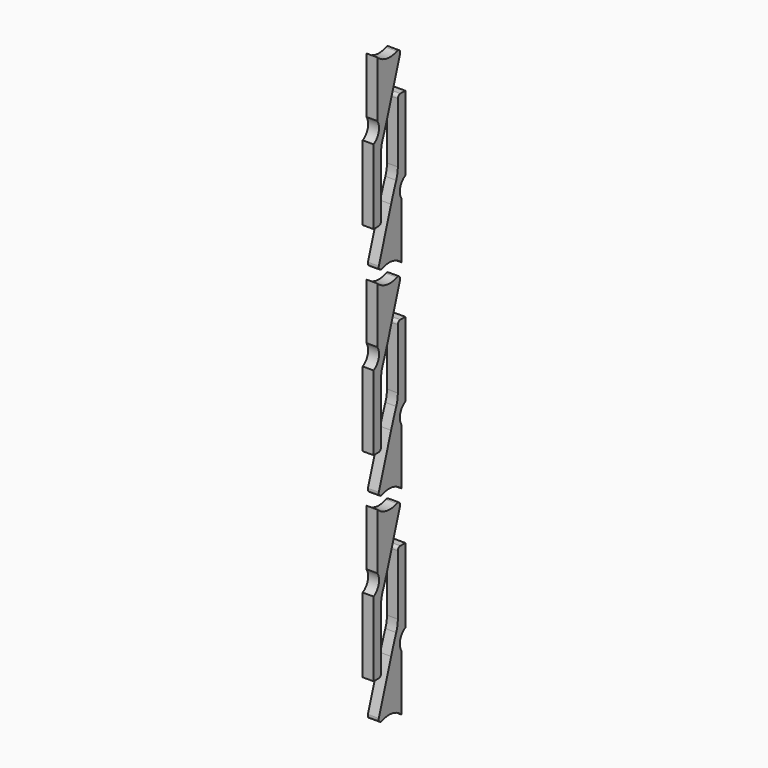
from build123d import *

# Parameters (mm, degrees)
F0_W     = 44.45
F0_H     = 184.15
F1_DEPTH = 2438.4
F2_W     = 184.15
F2_H     = 2438.4
F3_DEPTH = 44.451


with BuildPart() as f1:
    # F0 (on Top) → F1 (new body)
    with BuildSketch(Plane.XY):
        with Locations((22.225, 92.075)):
            Rectangle(F0_W, F0_H)
    extrude(amount=F1_DEPTH)

    # F2 (on face) → F3 (cut, through all)
    with BuildSketch(Plane.YZ.offset(44.45)):
        with Locations((92.075, 1219.2)):
            Rectangle(F2_W, F2_H)
        with BuildLine():
            Line((50.8, 449.111792), (50.8, 203.2))
            ThreePointArc((50.8, 203.2), (47.080256, 194.219744), (38.1, 190.5))
            Line((38.1, 190.5), (12.7, 190.5))
            Line((12.7, 190.5), (12.7, 495.3))
            ThreePointArc((12.7, 495.3), (38.955498, 529.217376), (31.75, 571.5))
            Line((31.75, 571.5), (31.75, 800.1))
            ThreePointArc((31.75, 800.1), (78.644314, 776.209793), (130.963939, 781.908516))
            ThreePointArc((130.963939, 781.908516), (144.458401, 779.576827), (147.990097, 766.345637))
            Line((147.990097, 766.345637), (85.113103, 569.097312))
            ThreePointArc((85.113103, 569.097312), (72.5356, 531.351046), (58.977038, 493.945971))
            ThreePointArc((58.977038, 493.945971), (52.860982, 471.898672), (50.8, 449.111792))
        make_face(mode=Mode.SUBTRACT)
        with BuildLine():
            Line((149.225, 622.3), (174.625, 622.3))
            Line((174.625, 622.3), (174.625, 317.5))
            ThreePointArc((174.625, 317.5), (148.369502, 283.582624), (155.575, 241.3))
            Line((155.575, 241.3), (155.575, 12.7))
            ThreePointArc((155.575, 12.7), (108.680686, 36.590207), (56.361061, 30.891484))
            ThreePointArc((56.361061, 30.891484), (42.866599, 33.223173), (39.334903, 46.454363))
            Line((39.334903, 46.454363), (102.211897, 243.702688))
            ThreePointArc((102.211897, 243.702688), (114.7894, 281.448954), (128.347962, 318.854029))
            ThreePointArc((128.347962, 318.854029), (134.464018, 340.901328), (136.525, 363.688208))
            Line((136.525, 363.688208), (136.525, 609.6))
            ThreePointArc((136.525, 609.6), (140.244744, 618.580256), (149.225, 622.3))
        make_face(mode=Mode.SUBTRACT)
        with BuildLine():
            Line((136.525, 1176.488208), (136.525, 1422.4))
            ThreePointArc((136.525, 1422.4), (140.244744, 1431.380256), (149.225, 1435.1))
            Line((149.225, 1435.1), (174.625, 1435.1))
            Line((174.625, 1435.1), (174.625, 1130.3))
            ThreePointArc((174.625, 1130.3), (148.369502, 1096.382624), (155.575, 1054.1))
            Line((155.575, 1054.1), (155.575, 825.5))
            ThreePointArc((155.575, 825.5), (108.680686, 849.390207), (56.361061, 843.691484))
            ThreePointArc((56.361061, 843.691484), (42.866599, 846.023173), (39.334903, 859.254363))
            Line((39.334903, 859.254363), (102.211897, 1056.502688))
            ThreePointArc((102.211897, 1056.502688), (114.7894, 1094.248954), (128.347962, 1131.654029))
            ThreePointArc((128.347962, 1131.654029), (134.464018, 1153.701328), (136.525, 1176.488208))
        make_face(mode=Mode.SUBTRACT)
        with BuildLine():
            Line((50.8, 1261.911792), (50.8, 1016))
            ThreePointArc((50.8, 1016), (47.080256, 1007.019744), (38.1, 1003.3))
            Line((38.1, 1003.3), (12.7, 1003.3))
            Line((12.7, 1003.3), (12.7, 1308.1))
            ThreePointArc((12.7, 1308.1), (38.955498, 1342.017376), (31.75, 1384.3))
            Line((31.75, 1384.3), (31.75, 1612.9))
            ThreePointArc((31.75, 1612.9), (78.644314, 1589.009793), (130.963939, 1594.708516))
            ThreePointArc((130.963939, 1594.708516), (144.458401, 1592.376827), (147.990097, 1579.145637))
            Line((147.990097, 1579.145637), (85.113103, 1381.897312))
            ThreePointArc((85.113103, 1381.897312), (72.5356, 1344.151046), (58.977038, 1306.745971))
            ThreePointArc((58.977038, 1306.745971), (52.860982, 1284.698672), (50.8, 1261.911792))
        make_face(mode=Mode.SUBTRACT)
        with BuildLine():
            Line((38.1, 1816.1), (12.7, 1816.1))
            Line((12.7, 1816.1), (12.7, 2120.9))
            ThreePointArc((12.7, 2120.9), (38.955498, 2154.817376), (31.75, 2197.1))
            Line((31.75, 2197.1), (31.75, 2425.7))
            ThreePointArc((31.75, 2425.7), (78.644314, 2401.809793), (130.963939, 2407.508516))
            ThreePointArc((130.963939, 2407.508516), (144.458401, 2405.176827), (147.990097, 2391.945637))
            Line((147.990097, 2391.945637), (85.113103, 2194.697312))
            ThreePointArc((85.113103, 2194.697312), (72.5356, 2156.951046), (58.977038, 2119.545971))
            ThreePointArc((58.977038, 2119.545971), (52.860982, 2097.498672), (50.8, 2074.711792))
            Line((50.8, 2074.711792), (50.8, 1828.8))
            ThreePointArc((50.8, 1828.8), (47.080256, 1819.819744), (38.1, 1816.1))
        make_face(mode=Mode.SUBTRACT)
        with BuildLine():
            Line((149.225, 2247.9), (174.625, 2247.9))
            Line((174.625, 2247.9), (174.625, 1943.1))
            ThreePointArc((174.625, 1943.1), (148.369502, 1909.182624), (155.575, 1866.9))
            Line((155.575, 1866.9), (155.575, 1638.3))
            ThreePointArc((155.575, 1638.3), (108.680686, 1662.190207), (56.361061, 1656.491484))
            ThreePointArc((56.361061, 1656.491484), (42.866599, 1658.823173), (39.334903, 1672.054363))
            Line((39.334903, 1672.054363), (102.211897, 1869.302688))
            ThreePointArc((102.211897, 1869.302688), (114.7894, 1907.048954), (128.347962, 1944.454029))
            ThreePointArc((128.347962, 1944.454029), (134.464018, 1966.501328), (136.525, 1989.288208))
            Line((136.525, 1989.288208), (136.525, 2235.2))
            ThreePointArc((136.525, 2235.2), (140.244744, 2244.180256), (149.225, 2247.9))
        make_face(mode=Mode.SUBTRACT)
    extrude(amount=-F3_DEPTH, mode=Mode.SUBTRACT)


solid = f1.part
